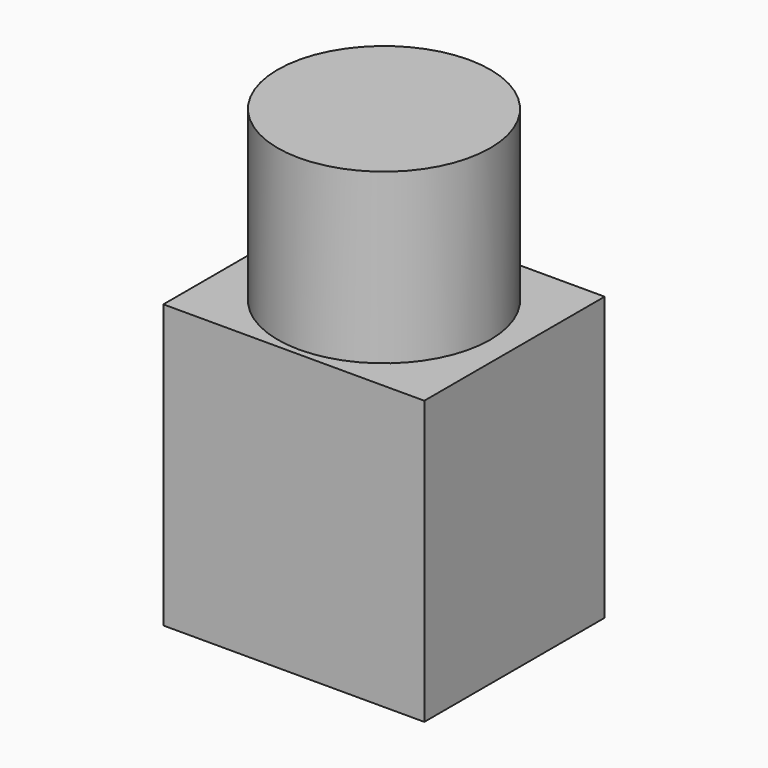
from build123d import *

# Parameters (mm, degrees)
F0_W     = 29.464
F0_H     = 25.4508
F1_DEPTH = 50.9778
F2_W     = 39.90591
F2_H     = 36.580414
F2_R     = 12
F3_DEPTH = 19.05


with BuildPart() as f1:
    # F0 (on Top) → F1 (new body)
    with BuildSketch(Plane.XY):
        Rectangle(F0_W, F0_H)
    extrude(amount=F1_DEPTH)

    # F2 (on face) → F3 (cut)
    with BuildSketch(Plane.XY.offset(50.9778)):
        Rectangle(F2_W, F2_H)
        Circle(F2_R, mode=Mode.SUBTRACT)
    extrude(amount=-F3_DEPTH, mode=Mode.SUBTRACT)


solid = f1.part
